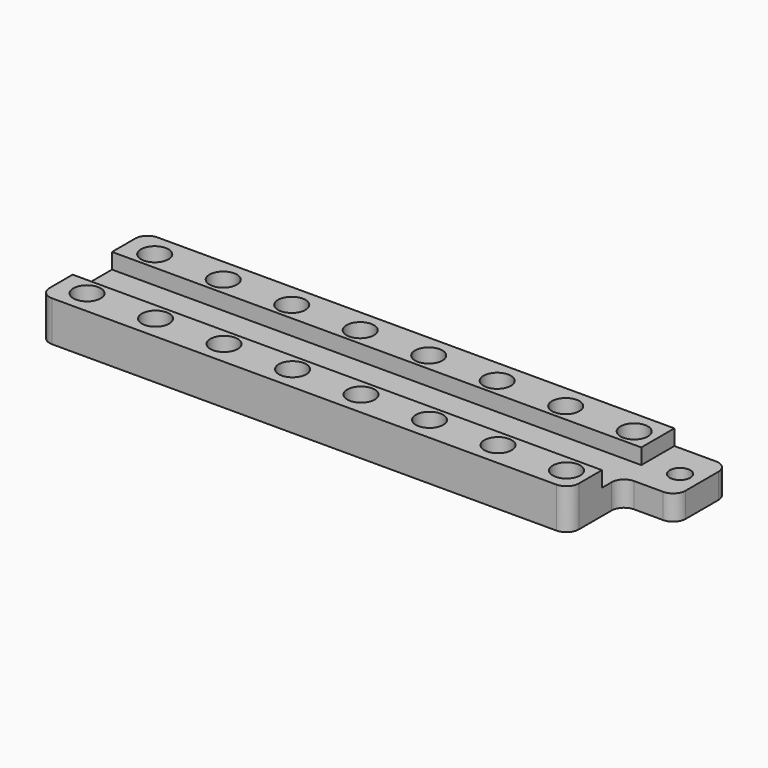
from build123d import *

# Parameters (mm, degrees)
F0_W     = 85
F0_H     = 6.6378710747
F0_H_2   = 7.9
F1_DEPTH = 4
F2_DEPTH = 2.5
F4_D     = 4.4
F4_DEPTH = 25
F4_TIP   = 1.3218933619
F6_DEPTH = 4
F7_D     = 3.3
F7_DEPTH = 25
F7_TIP   = 0.9914200214
F8_R     = 2


with BuildPart() as f1:
    # F0 (on Top) → F1 (new body)
    with BuildSketch(Plane.XY):
        with Locations((0, 7.2689355373)):
            Rectangle(F0_W, F0_H)
        Rectangle(F0_W, F0_H_2)
        with Locations((0, -7.2689355373)):
            Rectangle(F0_W, F0_H)
    extrude(amount=-F1_DEPTH)

    # F0 (on Top) → F2 (join)
    with BuildSketch(Plane.XY):
        with Locations((0, 7.2689355373)):
            Rectangle(F0_W, F0_H)
        with Locations((0, -7.2689355373)):
            Rectangle(F0_W, F0_H)
    extrude(amount=F2_DEPTH)

    # F4
    with Locations(Plane.XY.offset(2.5)):
        with Locations((-37.9123874009, 6.7939041182), (-37.9123874009, -6.7939041182), (-26.9123874009, 6.7939041182), (-26.9123874009, -6.7939041182), (-15.9123874009, 6.7939041182), (-15.9123874009, -6.7939041182), (-4.9123874009, 6.7939041182), (-4.9123874009, -6.7939041182), (6.0876125991, 6.7939041182), (6.0876125991, -6.7939041182), (17.0876125991, -6.7939041182), (17.0876125991, 6.7939041182), (28.0876125991, 6.7939041182), (28.0876125991, -6.7939041182), (39.0876125991, -6.7939041182), (39.0876125991, 6.7939041182)):
            Hole(F4_D / 2, depth=F4_DEPTH)
            with Locations((0, 0, -(F4_DEPTH + F4_TIP / 2))):  # 118° drill point
                Cone(0, F4_D / 2, F4_TIP, mode=Mode.SUBTRACT)

    # F5 (on Top) → F6 (join)
    with BuildSketch(Plane.XY):
        Polygon((51.1790141463, 10.5878710747), (42.4563325942, 10.5878710747), (42.5, 0), (51.1790141463, 0), align=None)
    extrude(amount=-F6_DEPTH)

    # F7
    with Locations(Plane.XY):
        with Locations((47.7968230844, 5.1023042761)):
            Hole(F7_D / 2, depth=F7_DEPTH)
            with Locations((0, 0, -(F7_DEPTH + F7_TIP / 2))):  # 118° drill point
                Cone(0, F7_D / 2, F7_TIP, mode=Mode.SUBTRACT)

    # F8
    f8_edges = [f1.edges().sort_by_distance(p)[0] for p in [
        (-42.5, 10.587871, -0.75),
        (-42.5, -10.587871, -0.75),
        (51.179014, 10.587871, -2),
        (51.179014, 0, -2),
        (42.5, -10.587871, -0.75),
        (42.5, 0, -2),
    ]]
    fillet(f8_edges, radius=F8_R)


solid = f1.part
